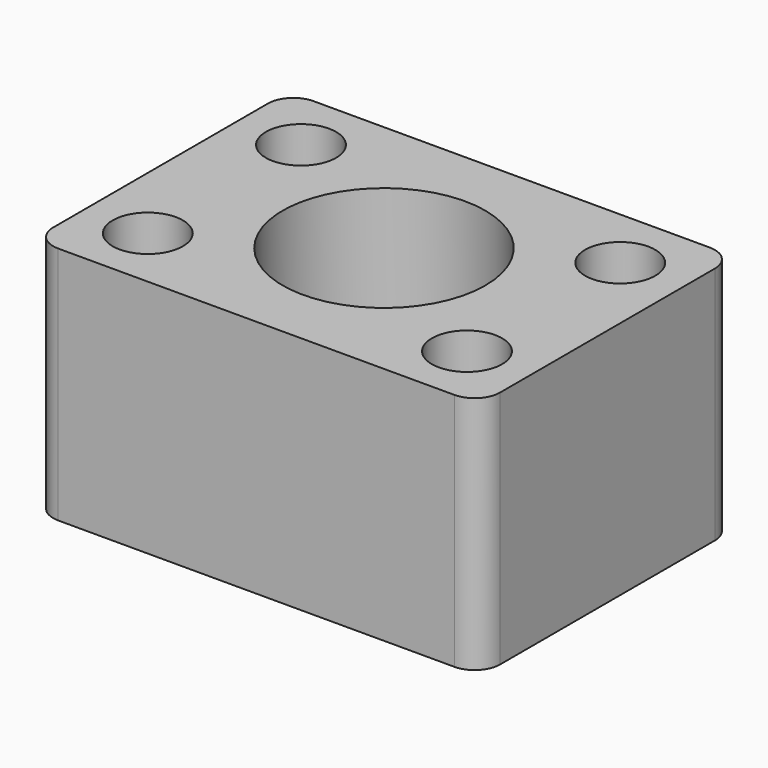
from build123d import *

# Parameters (mm, degrees)
F0_W     = 28
F0_H     = 20
F1_DEPTH = 15
F3_D     = 4.4
F4_R     = 6.35
F5_DEPTH = 15.001
F6_R     = 1.5875


with BuildPart() as f1:
    # F0 (on Top) → F1 (new body)
    with BuildSketch(Plane.XY):
        with Locations((14, 10)):
            Rectangle(F0_W, F0_H)
    extrude(amount=F1_DEPTH)

    # F3 (through all)
    with Locations(Plane.XY.offset(15)):
        with Locations((4, 16), (4, 4), (24, 4), (24, 16)):
            Hole(F3_D / 2)

    # F4 (on face) → F5 (cut, through all)
    with BuildSketch(Plane.XY.offset(15)):
        with Locations((14, 10)):
            Circle(F4_R)
    extrude(amount=-F5_DEPTH, mode=Mode.SUBTRACT)

    # F6
    f6_edges = [f1.edges().sort_by_distance(p)[0] for p in [
        (0, 0, 7.5),
        (28, 0, 7.5),
        (28, 20, 7.5),
        (0, 20, 7.5),
    ]]
    fillet(f6_edges, radius=F6_R)


solid = f1.part
